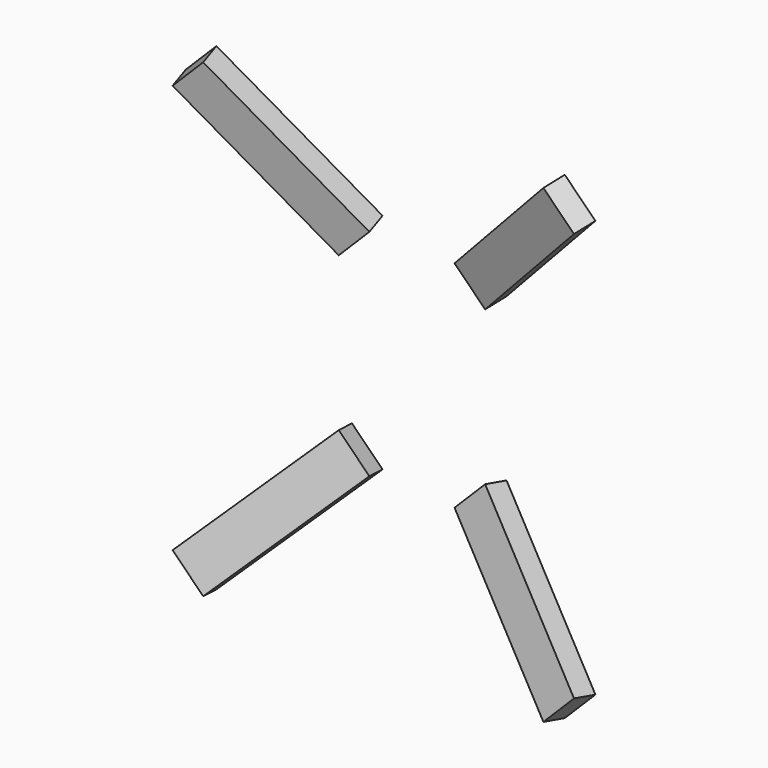
from build123d import *

# Parameters (mm, degrees)
BOX002_W           = 5.8
BOX002_H           = 3
BOX002_DEPTH       = 25
BOX002_ROLL_ANGLE  = -15
BOX002_PITCH_ANGLE = 45


with BuildPart() as cube002:
    # Box002 → Box002 (new body)
    with BuildSketch(Plane.XY):
        with Locations((2.9, 1.5)):
            Rectangle(BOX002_W, BOX002_H)
    extrude(amount=BOX002_DEPTH)


with BuildPart() as cube002_1:
    # Box002 roll: moved
    add(cube002.part.rotate(Axis((0, 0, 0), (1, 0, 0)), BOX002_ROLL_ANGLE))


with BuildPart() as cube002_2:
    # Box002 pitch: moved
    add(cube002_1.part.rotate(Axis((0, 0, 0), (0, 1, 0)), BOX002_PITCH_ANGLE))


with BuildPart() as cube002_3:
    # Box002 placement: moved
    add(cube002_2.part.moved(Location((12.12, -7, 5.12))))


with BuildPart() as fusion009:
    # Part__Mirroring: instance of Cube002
    add(cube002_3.part.mirror(Plane(origin=(0, 0, 0), x_dir=(0, 1, 0), z_dir=(0, 0, 1))))


with BuildPart() as fusion009_1:
    # Part__Mirroring placement: moved
    add(fusion009.part.moved(Location((0, 0, 65))))

    # Fusion009: union Cube002
    add(cube002_3.part)


with BuildPart() as part_mirroring001:
    # Part__Mirroring001: instance of Fusion009
    add(fusion009_1.part.mirror(Plane(origin=(0, 0, 0), x_dir=(0, -1, 0), z_dir=(1, 0, 0))))


with BuildPart() as part_mirroring001_1:
    # Part__Mirroring001 placement: moved
    add(part_mirroring001.part.moved(Location((78, 0, 0))))


with BuildPart() as fusion010:
    # Fusion010 base: copy of Fusion009
    add(fusion009_1.part)

    # Fusion010: union Part__Mirroring001
    add(part_mirroring001_1.part)


solid = fusion010.part
